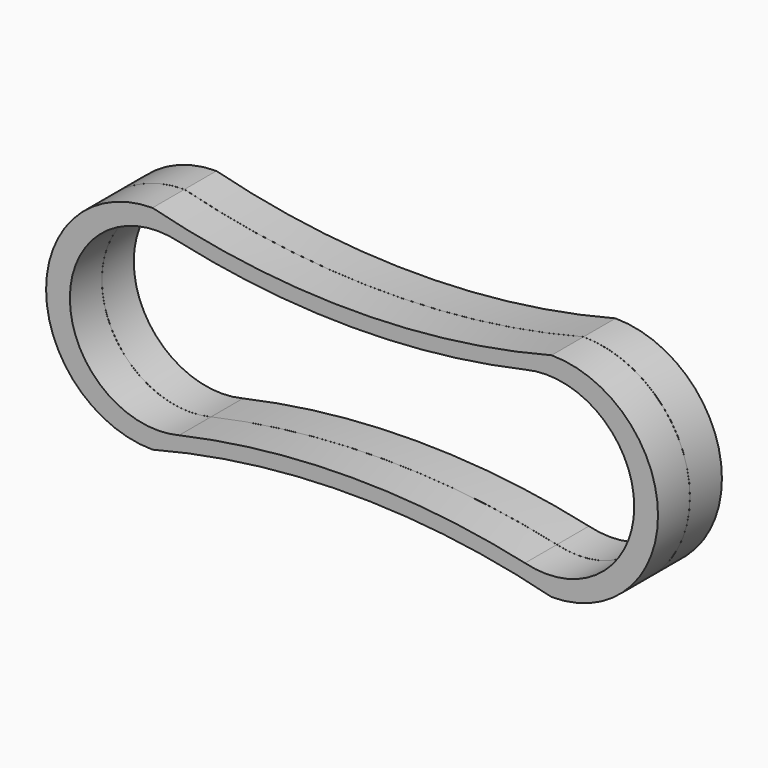
from build123d import *

# Parameters (mm, degrees)
F1_DEPTH = 15
F3_DEPTH = 15


with BuildPart() as f1:
    # F0 (on Front) → F1 (new body)
    with BuildSketch(Plane.XZ):
        with BuildLine():
            ThreePointArc((-75, -40), (0, -30.473751), (75, -40))
            ThreePointArc((75, -40), (115, 0), (75, 40))
            ThreePointArc((75, 40), (0, 30.473751), (-75, 40))
            ThreePointArc((-75, 40), (-115, 0), (-75, -40))
        make_face()
        with BuildLine():
            ThreePointArc((-65, -32), (-106.062258, 0), (-65, 32))
            ThreePointArc((-65, 32), (0, 24.873693), (65, 32))
            ThreePointArc((65, 32), (106.062258, 0), (65, -32))
            ThreePointArc((65, -32), (0, -24.873693), (-65, -32))
        make_face(mode=Mode.SUBTRACT)
    extrude(amount=F1_DEPTH)

    # F2 (on Front) → F3 (join)
    with BuildSketch(Plane.XZ):
        with BuildLine():
            ThreePointArc((-74.974527, -39.977687), (0.025473, -30.451438), (75.025473, -39.977687))
            ThreePointArc((75.025473, -39.977687), (115.025473, 0.022313), (75.025473, 40.022313))
            ThreePointArc((75.025473, 40.022313), (0.025473, 30.496064), (-74.974527, 40.022313))
            ThreePointArc((-74.974527, 40.022313), (-114.974527, 0.022313), (-74.974527, -39.977687))
        make_face()
        with BuildLine():
            ThreePointArc((-64.974527, -31.977687), (-106.036785, 0.022313), (-64.974527, 32.022313))
            ThreePointArc((-64.974527, 32.022313), (0.025473, 24.896006), (65.025473, 32.022313))
            ThreePointArc((65.025473, 32.022313), (106.087731, 0.022313), (65.025473, -31.977687))
            ThreePointArc((65.025473, -31.977687), (0.025473, -24.85138), (-64.974527, -31.977687))
        make_face(mode=Mode.SUBTRACT)
    extrude(amount=-F3_DEPTH)


solid = f1.part
